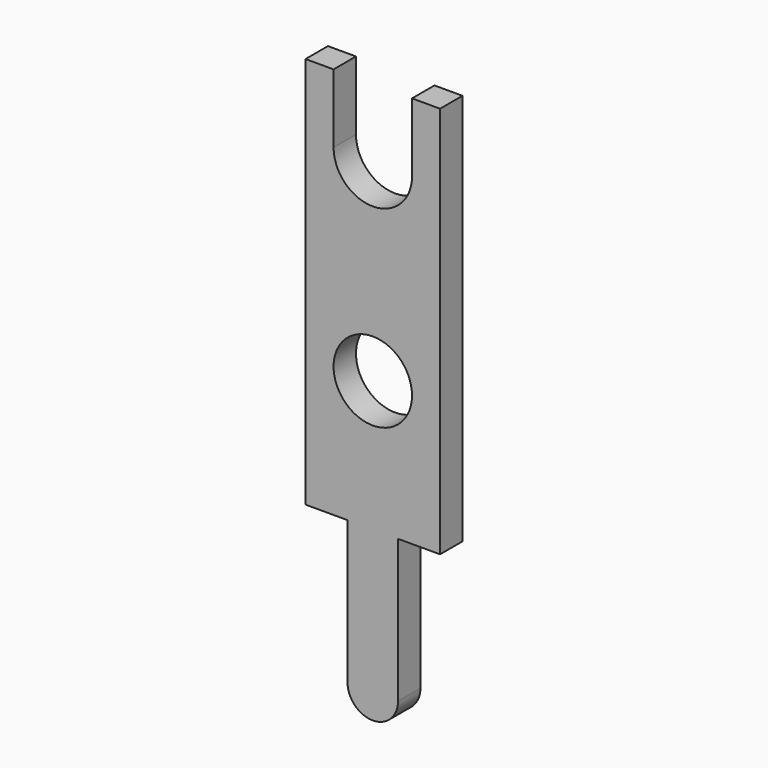
from build123d import *

# Parameters (mm, degrees)
SKETCH_R  = 0.7
PAD_DEPTH = 0.25


with BuildPart() as part:
    # Sketch → Pad (new body, symmetric)
    with BuildSketch(Plane.XZ):
        with BuildLine():
            Line((-1.2, 7), (-1.2, 0))
            Line((-1.2, 0), (-0.45, 0))
            Line((-0.45, 0), (-0.45, -2.55))
            ThreePointArc((-0.45, -2.55), (0, -3), (0.45, -2.55))
            Line((0.45, 0), (0.45, -2.55))
            Line((0.45, 0), (1.2, 0))
            Line((1.2, 0), (1.2, 7))
            Line((1.2, 7), (0.7, 7))
            Line((0.7, 7), (0.7, 5.775))
            ThreePointArc((-0.7, 5.775), (0, 5.075), (0.7, 5.775))
            Line((-0.7, 5.775), (-0.7, 7))
            Line((-0.7, 7), (-1.2, 7))
        make_face()
        with Locations((0, 2.3331)):
            Circle(SKETCH_R, mode=Mode.SUBTRACT)
    extrude(amount=PAD_DEPTH, both=True)


solid = part.part
